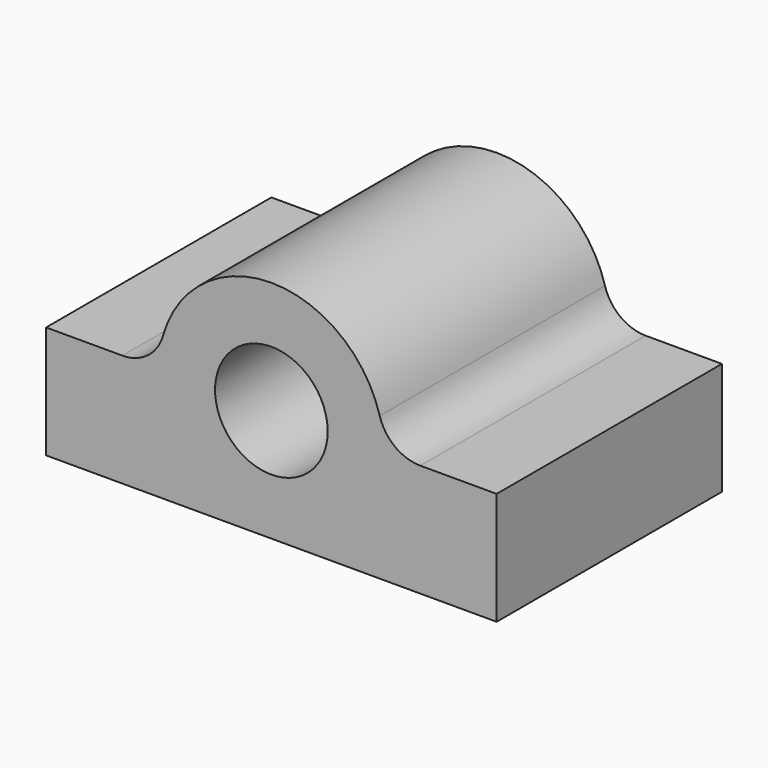
from build123d import *

# Parameters (mm, degrees)
F1_DEPTH = 127
F2_R     = 6.35
F3_DEPTH = 31.75


with BuildPart() as f1:
    # F0 (on Front) → F1 (new body)
    with BuildSketch(Plane.XZ):
        with BuildLine():
            ThreePointArc((67.202083, 0), (55.714501, 3.853357), (48.874242, 13.854545))
            ThreePointArc((48.874242, 13.854545), (0, 50.8), (-48.874242, 13.854545))
            ThreePointArc((-48.874242, 13.854545), (-55.714501, 3.853357), (-67.202083, 0))
            Line((-67.202083, 0), (-101.6, 0))
            Line((-101.6, 0), (-101.6, -50.8))
            Line((-101.6, -50.8), (101.6, -50.8))
            Line((101.6, -50.8), (101.6, 0))
            Line((101.6, 0), (67.202083, 0))
        make_face()
        with BuildLine():
            ThreePointArc((-25.4, 0), (0, 25.4), (25.4, 0))
            ThreePointArc((25.4, 0), (0, -25.4), (-25.4, 0))
        make_face(mode=Mode.SUBTRACT)
    extrude(amount=F1_DEPTH)

    # F2 (on face) → F3 (cut)
    with BuildSketch(Plane(origin=(0, 0, -50.8), x_dir=(1, 0, 0), z_dir=(0, 0, -1))):
        with Locations((-76.2, 101.6)):
            Circle(F2_R)
        with Locations((-76.2, 25.4)):
            Circle(F2_R)
        with Locations((76.2, 25.4)):
            Circle(F2_R)
        with Locations((76.2, 101.6)):
            Circle(F2_R)
    extrude(amount=-F3_DEPTH, mode=Mode.SUBTRACT)


solid = f1.part
